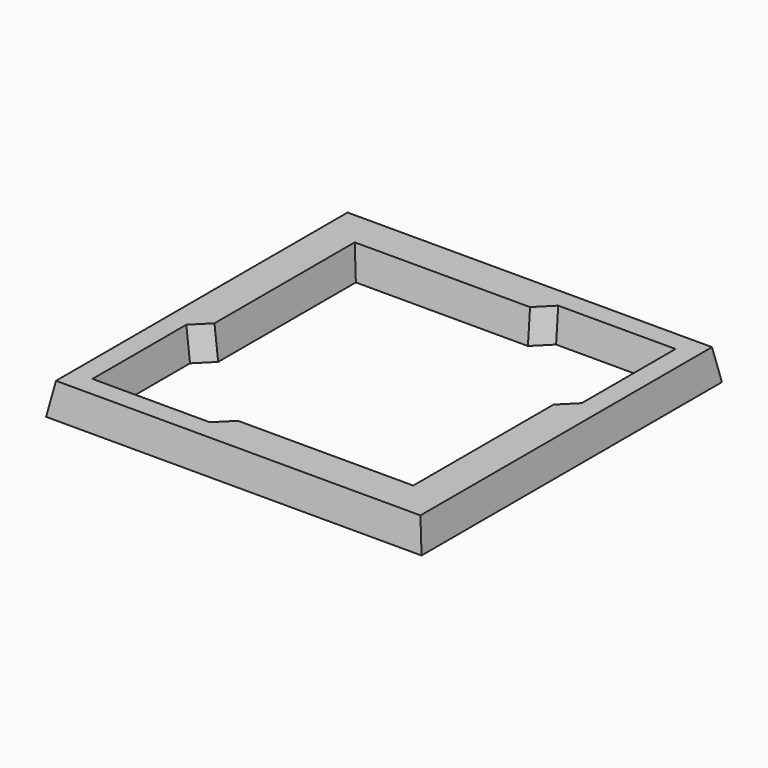
from build123d import *

# Parameters (mm, degrees)
F0_W     = 76.2
F0_H     = 76.2
F1_DEPTH = 6.35
F1_TAPER = 10


with BuildPart() as f1:
    # F0 (on Top) → F1 (new body)
    with BuildSketch(Plane.XY):
        Rectangle(F0_W, F0_H)
        Polygon((31.75, -31.75), (-9.525, -31.75), (-31.75, -31.75), (-31.75, -9.525), (-31.75, 31.75), (9.525, 31.75), (31.75, 31.75), (31.75, 9.525), align=None, mode=Mode.SUBTRACT)
        Polygon((-28.575, -6.35), (-28.575, 28.575), (6.35, 28.575), (9.525, 31.75), (-31.75, 31.75), (-31.75, -9.525), align=None)
        Polygon((28.575, 6.35), (28.575, -28.575), (-6.35, -28.575), (-9.525, -31.75), (31.75, -31.75), (31.75, 9.525), align=None)
    extrude(amount=F1_DEPTH, taper=F1_TAPER)


solid = f1.part
